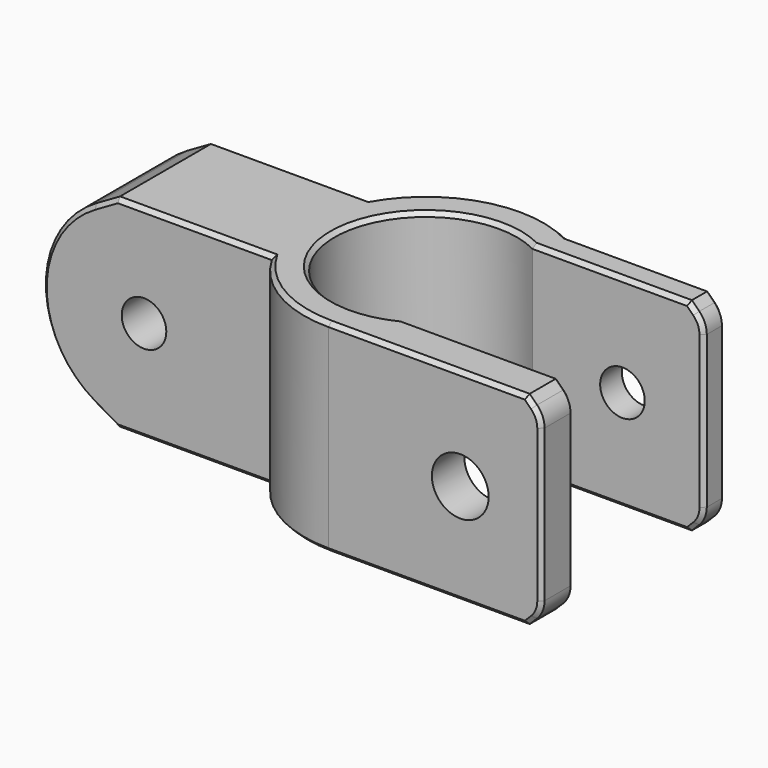
from build123d import *

# Parameters (mm, degrees)
PAD048_DEPTH         = 10
SKETCH195_R          = 2.2
POCKET126_DEPTH      = 12.001
POCKET126_DEPTH_BACK = 12.001
SKETCH238_R          = 2.8
POCKET188_DEPTH      = 4
CHAMFER001_SIZE      = 0.4


with BuildPart() as part:
    # Sketch194 → Pad048 (new body, symmetric)
    with BuildSketch(Plane.XY):
        with BuildLine():
            ThreePointArc((4.123106, 8), (-9, 0), (4.123106, -8))
            Line((4.123106, -8), (21, -8))
            Line((21, -8), (21, -12))
            Line((-3.3e-05, -12), (21, -12))
            ThreePointArc((-10.392305, -6), (-6.000014, -10.392296), (-3.3e-05, -12))
            Line((-33, -6), (-10.392305, -6))
            Line((-33, 6), (-33, -6))
            Line((-10.392305, 6), (-33, 6))
            ThreePointArc((5.497474, 10.666667), (-3.381462, 11.513719), (-10.392305, 6))
            Line((21, 10.666667), (5.497474, 10.666667))
            Line((21, 8), (21, 10.666667))
            Line((4.123106, 8), (21, 8))
        make_face()
    extrude(amount=PAD048_DEPTH, both=True)

    # Sketch195 → Pocket126 (cut, two sides)
    with BuildSketch(Plane.XZ) as pocket126_sk:
        with Locations((13, 0)):
            Circle(SKETCH195_R)
        with Locations((-23, 0)):
            Circle(SKETCH195_R)
        with BuildLine():
            ThreePointArc((-28, 8.660254), (-33, 0), (-28, -8.660254))
            Line((-28, -8.660254), (-25.679492, -10))
            Line((-25.679492, -10), (-25.679492, -11))
            Line((-25.679492, -11), (-34, -11))
            Line((-34, -11), (-34, 11))
            Line((-34, 11), (-25.679492, 11))
            Line((-25.679492, 11), (-25.679492, 10))
            Line((-28, 8.660254), (-25.679492, 10))
        make_face()
        with BuildLine():
            ThreePointArc((21, 7.5), (20.809699, 8.456709), (20.267767, 9.267767))
            Line((19.535534, 10), (20.267767, 9.267767))
            Line((19.535534, 10), (19.535534, 11))
            Line((19.535534, 11), (22, 11))
            Line((22, 11), (22, -11))
            Line((22, -11), (19.535534, -11))
            Line((19.535534, -11), (19.535534, -10))
            Line((19.535534, -10), (20.267767, -9.267767))
            ThreePointArc((20.267767, -9.267767), (20.809699, -8.456709), (21, -7.5))
            Line((21, -7.5), (21, 7.5))
        make_face()
    extrude(amount=-POCKET126_DEPTH, mode=Mode.SUBTRACT)
    extrude(pocket126_sk.sketch, amount=POCKET126_DEPTH_BACK, mode=Mode.SUBTRACT)

    # Sketch238 (on DatumPlane) → Pocket188 (cut)
    with BuildSketch(Plane(origin=(13, -12, 0), x_dir=(0, 0, 1), z_dir=(0, -1, 0))):
        Circle(SKETCH238_R)
    extrude(amount=-POCKET188_DEPTH, mode=Mode.SUBTRACT)

    # Chamfer001
    chamfer001_edges = [part.edges().sort_by_distance(p)[0] for p in [
        (-18.035898, 6, 10),
        (-18.035898, -6, 10),
        (-6.000014, -10.392296, 10),
        (9.76775, -12, 10),
        (-9, 0, 10),
        (11.82932, -8, 10),
        (11.82932, 8, 10),
        (12.516504, 10.666667, 10),
        (-3.381462, 11.513719, 10),
        (12.516504, 10.666667, -10),
        (11.82932, 8, -10),
        (-3.381462, 11.513719, -10),
        (-9, 0, -10),
        (11.82932, -8, -10),
        (9.76775, -12, -10),
        (-6.000014, -10.392296, -10),
        (-18.035898, -6, -10),
        (-18.035898, 6, -10),
        (-26.839746, 6, 9.330127),
        (-31.660254, 6, 5),
        (-31.660254, 6, -5),
        (-26.839746, 6, -9.330127),
        (-26.839746, -6, 9.330127),
        (-31.660254, -6, 5),
        (-31.660254, -6, -5),
        (-26.839746, -6, -9.330127),
        (19.90165, -12, 9.633883),
        (20.809699, -12, 8.456709),
        (21, -12, 0),
        (20.809699, -12, -8.456709),
        (19.90165, -12, -9.633883),
        (19.90165, -8, 9.633883),
        (20.809699, -8, 8.456709),
        (21, -8, 0),
        (20.809699, -8, -8.456709),
        (19.90165, -8, -9.633883),
        (19.90165, 8, -9.633883),
        (19.90165, 10.666667, -9.633883),
        (20.809699, 10.666667, -8.456709),
        (20.809699, 8, -8.456709),
        (21, 10.666667, 0),
        (21, 8, 0),
        (20.809699, 10.666667, 8.456709),
        (19.90165, 10.666667, 9.633883),
        (19.90165, 8, 9.633883),
        (20.809699, 8, 8.456709),
    ]]
    chamfer(chamfer001_edges, length=CHAMFER001_SIZE)


with BuildPart() as part_1:
    # Body022042 placement: moved
    add(part.part.moved(Location((113, -113, 428.30889))))


solid = part_1.part
